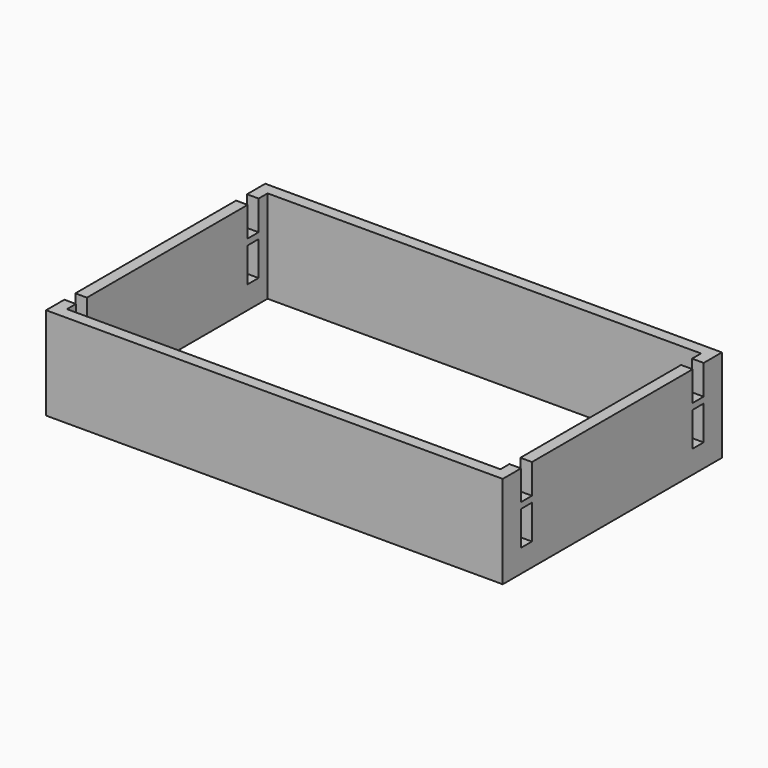
from build123d import *

# Parameters (mm, degrees)
F0_W          = 1000
F0_H          = 600
F0_W_2        = 949.2
F0_H_2        = 549.2
F1_DEPTH      = 203.2
F2_W          = 30
F2_H          = 75
F3_DEPTH      = 500.001
F3_DEPTH_BACK = 500.001


with BuildPart() as f1:
    # F0 (on Top) → F1 (new body)
    with BuildSketch(Plane.XY):
        Rectangle(F0_W, F0_H)
        Rectangle(F0_W_2, F0_H_2, mode=Mode.SUBTRACT)
    extrude(amount=F1_DEPTH)

    # F2 (on Right) → F3 (cut, two sides)
    with BuildSketch(Plane.YZ) as f3_sk:
        with Locations((235, 175.7)):
            Rectangle(F2_W, F2_H)
        with Locations((-235, 175.7)):
            Rectangle(F2_W, F2_H)
        with Locations((-235, 87.5)):
            Rectangle(F2_W, F2_H)
        with Locations((235, 87.5)):
            Rectangle(F2_W, F2_H)
    extrude(amount=-F3_DEPTH, mode=Mode.SUBTRACT)
    extrude(f3_sk.sketch, amount=F3_DEPTH_BACK, mode=Mode.SUBTRACT)


solid = f1.part
